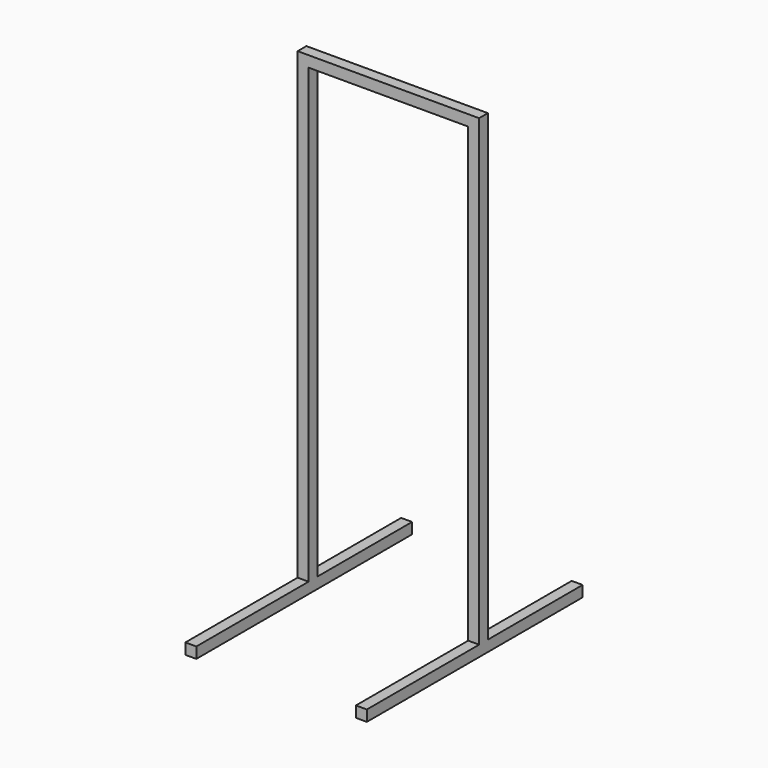
from build123d import *

# Parameters (mm, degrees)
F0_W          = 50.8
F0_H          = 2149.2
F0_H_2        = 50.8
F1_DEPTH      = 50.8
F2_W          = 50.8
F2_H          = 50.8
F3_DEPTH      = 650.7988
F3_DEPTH_BACK = 600


with BuildPart() as f1:
    # F0 (on Front) → F1 (new body)
    with BuildSketch(Plane.XZ):
        with Locations((-312.839708, 791.641273)):
            Rectangle(F0_W, F0_H)
        Polygon((-338.239708, 1917.041273), (-338.239708, 1866.241273), (-287.439708, 1866.241273), (452.560292, 1866.241273), (452.560292, 1917.041273), align=None)
        with Locations((477.960292, 1891.641273)):
            Rectangle(F0_W, F0_H_2)
        with Locations((477.960292, 791.641273)):
            Rectangle(F0_W, F0_H)
    extrude(amount=F1_DEPTH)

    # F2 (on face) → F3 (join, two sides)
    with BuildSketch(Plane.XZ.offset(50.8)) as f3_sk:
        with Locations((-312.839708, -257.558727)):
            Rectangle(F2_W, F2_H)
        with Locations((477.960292, -257.558727)):
            Rectangle(F2_W, F2_H)
    extrude(amount=F3_DEPTH)
    extrude(f3_sk.sketch, amount=-F3_DEPTH_BACK)


solid = f1.part
